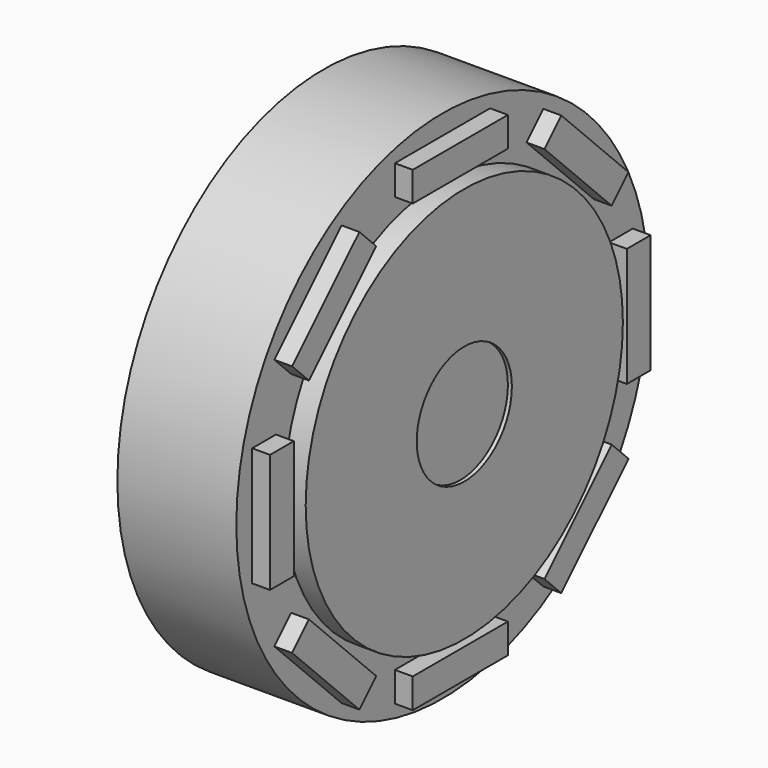
from build123d import *

# Parameters (mm, degrees)
F0_R     = 6.5
F0_R_2   = 5
F0_R_3   = 1.5
F1_DEPTH = 3
F2_DEPTH = 3.55
F3_DEPTH = 3.45
F4_W     = 3
F4_H     = 0.75
F4_W_2   = 0.75
F4_H_2   = 3
F5_DEPTH = 0.45


with BuildPart() as f1:
    # F0 (on Right) → F1 (new body)
    with BuildSketch(Plane.YZ):
        Circle(F0_R)
        Circle(F0_R_2, mode=Mode.SUBTRACT)
        Circle(F0_R_2)
        Circle(F0_R_3, mode=Mode.SUBTRACT)
        Circle(F0_R_3)
    extrude(amount=F1_DEPTH)

    # F0 (on Right) → F2 (join)
    with BuildSketch(Plane.YZ):
        Circle(F0_R_2)
        Circle(F0_R_3, mode=Mode.SUBTRACT)
    extrude(amount=F2_DEPTH)

    # F0 (on Right) → F3 (join)
    with BuildSketch(Plane.YZ):
        Circle(F0_R_3)
    extrude(amount=F3_DEPTH)

    # F4 (on face) → F5 (join, through all)
    with BuildSketch(Plane.YZ.offset(3.45)):
        with Locations((0, 5.625)):
            Rectangle(F4_W, F4_H)
        Polygon((5.303301, 3.181981), (3.181981, 5.303301), (2.65165, 4.772971), (4.772971, 2.65165), align=None)
        with Locations((5.625, 0)):
            Rectangle(F4_W_2, F4_H_2)
        Polygon((3.181981, -5.303301), (5.303301, -3.181981), (4.772971, -2.65165), (2.65165, -4.772971), align=None)
        with Locations((0, -5.625)):
            Rectangle(F4_W, F4_H)
        Polygon((-5.303301, -3.181981), (-3.181981, -5.303301), (-2.65165, -4.772971), (-4.772971, -2.65165), align=None)
        with Locations((-5.625, 0)):
            Rectangle(F4_W_2, F4_H_2)
        Polygon((-3.181981, 5.303301), (-5.303301, 3.181981), (-4.772971, 2.65165), (-2.65165, 4.772971), align=None)
    extrude(amount=-F5_DEPTH)


solid = f1.part
